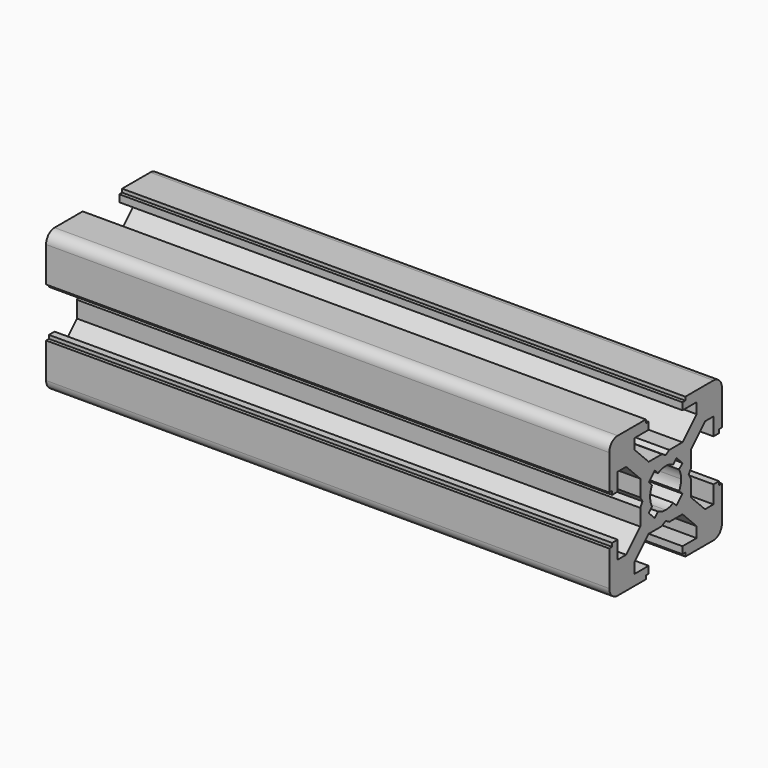
from build123d import *

# Parameters (mm, degrees)
PAD_DEPTH = 80


with BuildPart() as part:
    # Sketch → Pad (new body)
    with BuildSketch(Plane.YZ):
        with BuildLine():
            Line((0, 4.1), (0.65, 4.5))
            Line((0.65, 4.5), (3, 4.5))
            Line((3, 4.5), (5.5, 7))
            Line((5.5, 7), (5.5, 8.5))
            Line((5.5, 8.5), (3, 8.5))
            Line((3, 8.5), (3, 9.5))
            Line((3, 9.5), (3.5, 9.5))
            Line((3.5, 9.5), (3.5, 10))
            Line((3.5, 10), (8.5, 10))
            ThreePointArc((10, 8.5), (9.56066, 9.56066), (8.5, 10))
            Line((10, 8.5), (10, 3.5))
            Line((10, 3.5), (9.5, 3.5))
            Line((9.5, 3.5), (9.5, 3))
            Line((9.5, 3), (8.5, 3))
            Line((8.5, 3), (8.5, 5.5))
            Line((8.5, 5.5), (7, 5.5))
            Line((7, 5.5), (4.5, 3))
            Line((4.5, 3), (4.5, 0.65))
            Line((4.5, 0.65), (4.1, 0))
            Line((4.5, -0.65), (4.1, 0))
            Line((4.5, -3), (4.5, -0.65))
            Line((7, -5.5), (4.5, -3))
            Line((8.5, -5.5), (7, -5.5))
            Line((8.5, -3), (8.5, -5.5))
            Line((9.5, -3), (8.5, -3))
            Line((9.5, -3.5), (9.5, -3))
            Line((10, -3.5), (9.5, -3.5))
            Line((10, -8.5), (10, -3.5))
            ThreePointArc((8.5, -10), (9.56066, -9.56066), (10, -8.5))
            Line((3.5, -10), (8.5, -10))
            Line((3.5, -9.5), (3.5, -10))
            Line((3, -9.5), (3.5, -9.5))
            Line((3, -8.5), (3, -9.5))
            Line((5.5, -8.5), (3, -8.5))
            Line((5.5, -7), (5.5, -8.5))
            Line((3, -4.5), (5.5, -7))
            Line((0.65, -4.5), (3, -4.5))
            Line((0, -4.1), (0.65, -4.5))
            Line((0, -4.1), (-0.65, -4.5))
            Line((-0.65, -4.5), (-3, -4.5))
            Line((-3, -4.5), (-5.5, -7))
            Line((-5.5, -7), (-5.5, -8.5))
            Line((-5.5, -8.5), (-3, -8.5))
            Line((-3, -8.5), (-3, -9.5))
            Line((-3, -9.5), (-3.5, -9.5))
            Line((-3.5, -9.5), (-3.5, -10))
            Line((-3.5, -10), (-8.5, -10))
            ThreePointArc((-10, -8.5), (-9.56066, -9.56066), (-8.5, -10))
            Line((-10, -8.5), (-10, -3.5))
            Line((-10, -3.5), (-9.5, -3.5))
            Line((-9.5, -3.5), (-9.5, -3))
            Line((-9.5, -3), (-8.5, -3))
            Line((-8.5, -3), (-8.5, -5.5))
            Line((-8.5, -5.5), (-7, -5.5))
            Line((-7, -5.5), (-4.5, -3))
            Line((-4.5, -3), (-4.5, -0.65))
            Line((-4.5, -0.65), (-4.1, 0))
            Line((-4.5, 0.65), (-4.1, 0))
            Line((-4.5, 3), (-4.5, 0.65))
            Line((-7, 5.5), (-4.5, 3))
            Line((-8.5, 5.5), (-7, 5.5))
            Line((-8.5, 3), (-8.5, 5.5))
            Line((-9.5, 3), (-8.5, 3))
            Line((-9.5, 3.5), (-9.5, 3))
            Line((-10, 3.5), (-9.5, 3.5))
            Line((-10, 8.5), (-10, 3.5))
            ThreePointArc((-8.5, 10), (-9.56066, 9.56066), (-10, 8.5))
            Line((-3.5, 10), (-8.5, 10))
            Line((-3.5, 9.5), (-3.5, 10))
            Line((-3, 9.5), (-3.5, 9.5))
            Line((-3, 8.5), (-3, 9.5))
            Line((-5.5, 8.5), (-3, 8.5))
            Line((-5.5, 7), (-5.5, 8.5))
            Line((-3, 4.5), (-5.5, 7))
            Line((-0.65, 4.5), (-3, 4.5))
            Line((0, 4.1), (-0.65, 4.5))
        make_face()
        with BuildLine():
            Line((1.340499, 2.401159), (1.923239, 2.983899))
            Line((1.923239, 2.983899), (2.983899, 1.923239))
            Line((2.983899, 1.923239), (2.401159, 1.340499))
            ThreePointArc((2.75, 0), (2.661361, 0.692573), (2.401159, 1.340499))
            ThreePointArc((2.401164, -1.34049), (2.661362, -0.692568), (2.75, 0))
            Line((2.983904, -1.92323), (2.401164, -1.34049))
            Line((1.923247, -2.983894), (2.983904, -1.92323))
            Line((1.340507, -2.401154), (1.923247, -2.983894))
            ThreePointArc((0, -2.75), (0.692577, -2.66136), (1.340507, -2.401154))
            ThreePointArc((-1.340507, -2.401154), (-0.692577, -2.66136), (0, -2.75))
            Line((-1.340507, -2.401154), (-1.923247, -2.983894))
            Line((-1.923247, -2.983894), (-2.983904, -1.92323))
            Line((-2.983904, -1.92323), (-2.401164, -1.34049))
            ThreePointArc((-2.75, 0), (-2.661362, -0.692568), (-2.401164, -1.34049))
            ThreePointArc((-2.401159, 1.340499), (-2.661361, 0.692572), (-2.75, 0))
            Line((-2.983899, 1.923239), (-2.401159, 1.340499))
            Line((-1.923239, 2.983899), (-2.983899, 1.923239))
            Line((-1.340499, 2.401159), (-1.923239, 2.983899))
            ThreePointArc((0, 2.75), (-0.692573, 2.661361), (-1.340499, 2.401159))
            ThreePointArc((1.340499, 2.401159), (0.692573, 2.661361), (0, 2.75))
        make_face(mode=Mode.SUBTRACT)
    extrude(amount=PAD_DEPTH)


solid = part.part
